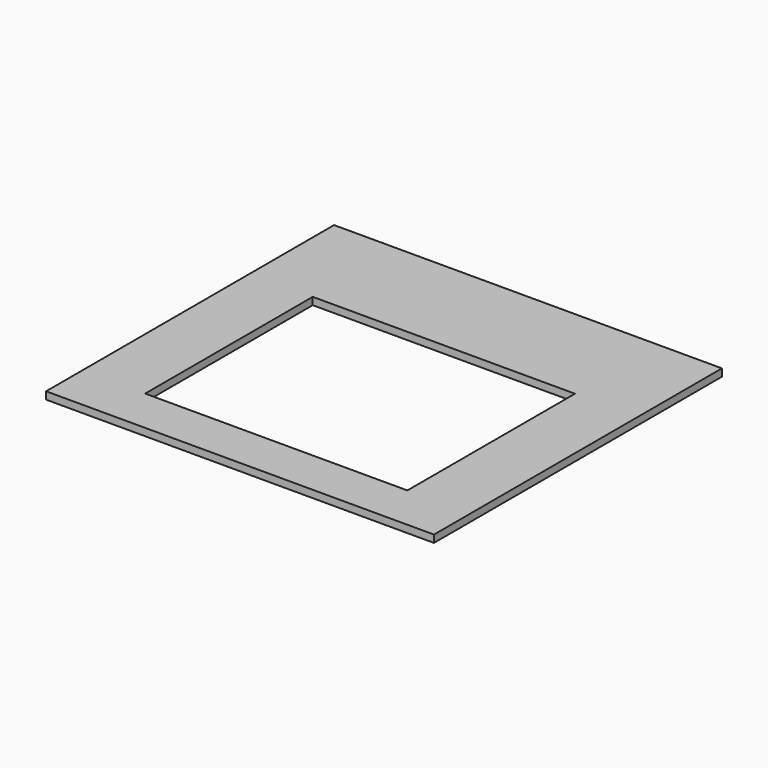
from build123d import *

# Parameters (mm, degrees)
F0_W     = 500
F0_H     = 464
F1_DEPTH = 9.5


with BuildPart() as f1:
    # F0 (on Top) → F1 (new body)
    with BuildSketch(Plane.XY):
        with Locations((199.084524, 215.949913)):
            Rectangle(F0_W, F0_H)
        Polygon((30.084524, 312.385261), (199.084524, 312.385261), (368.084524, 312.385261), (368.084524, 42.385261), (30.084524, 42.385261), align=None, mode=Mode.SUBTRACT)
    extrude(amount=F1_DEPTH)


solid = f1.part
